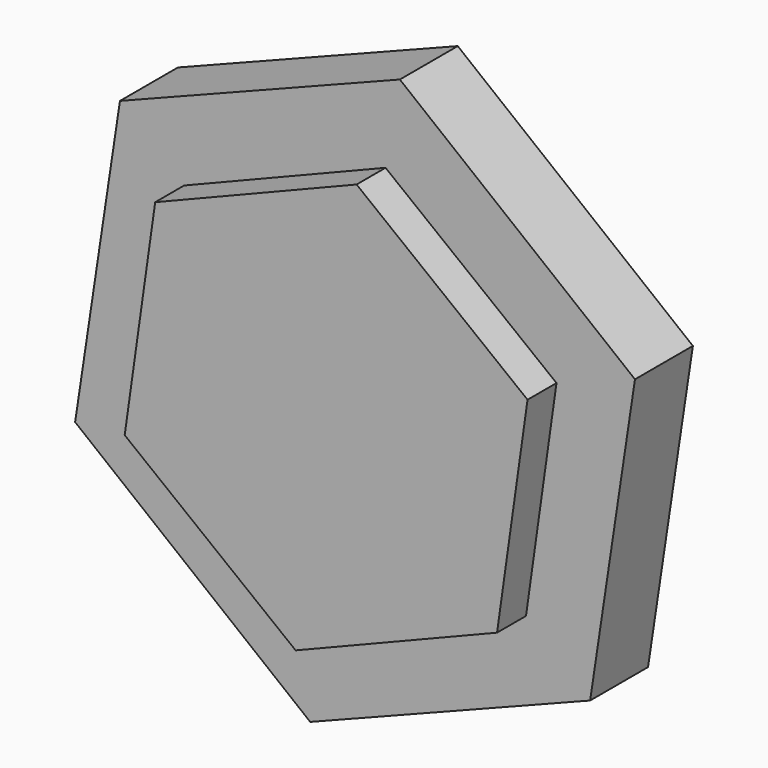
from build123d import *

# Parameters (mm, degrees)
F1_DEPTH = 12.7
F3_DEPTH = 6.35


with BuildPart() as f1:
    # F0 (on Front) → F1 (new body)
    with BuildSketch(Plane.XZ):
        Polygon((-39.230831, 10.892809), (-31.367167, 63.067114), (-72.619609, 95.964399), (-121.735714, 76.68738), (-129.599378, 24.513075), (-88.346937, -8.38421), align=None)
    extrude(amount=F1_DEPTH)

    # F2 (on face) → F3 (join)
    with BuildSketch(Plane.XZ.offset(12.7)):
        Polygon((-85.828952, 6.068104), (-50.486611, 20.296377), (-45.137486, 58.017879), (-75.130703, 81.511108), (-110.473044, 67.282835), (-115.822168, 29.561333), align=None)
    extrude(amount=F3_DEPTH)


solid = f1.part
